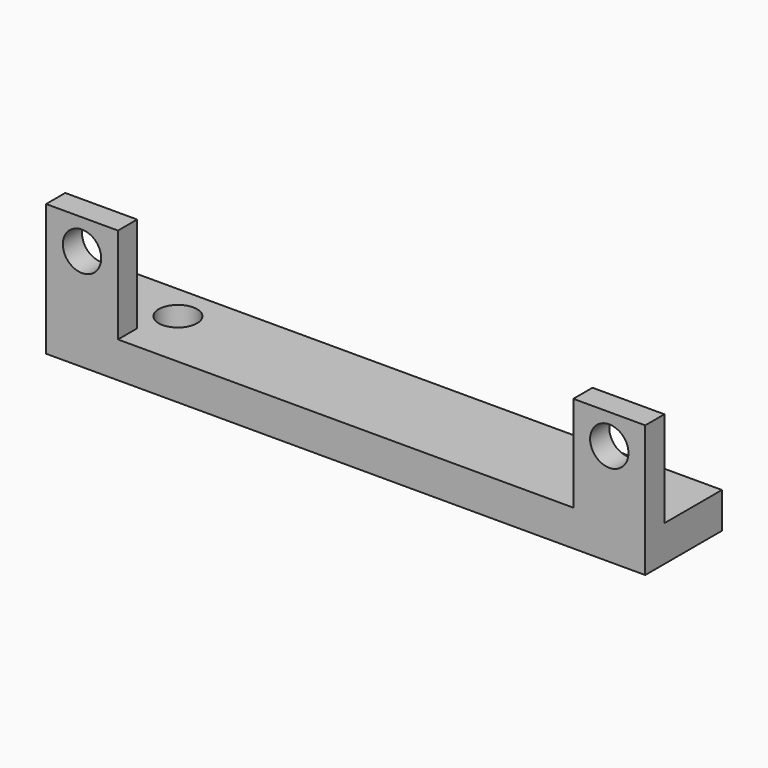
from build123d import *

# Parameters (mm, degrees)
SKETCH_W     = 50
SKETCH_H     = 8
SKETCH_R     = 1.6
PAD_DEPTH    = 3
SKETCH001_W  = 6
SKETCH001_H  = 2
PAD001_DEPTH = 8
SKETCH002_R  = 1.6
POCKET_DEPTH = 5


with BuildPart() as part:
    # Sketch → Pad (new body)
    with BuildSketch(Plane.XY):
        with Locations((-25, 4)):
            Rectangle(SKETCH_W, SKETCH_H)
        with Locations((-43, 5)):
            Circle(SKETCH_R, mode=Mode.SUBTRACT)
        with Locations((-7, 5)):
            Circle(SKETCH_R, mode=Mode.SUBTRACT)
    extrude(amount=PAD_DEPTH)

    # Sketch001 (on Face8 of Pad) → Pad001 (join)
    with BuildSketch(Plane.XY.offset(3)):
        with Locations((-47, 1)):
            Rectangle(SKETCH001_W, SKETCH001_H)
        with Locations((-3, 1)):
            Rectangle(SKETCH001_W, SKETCH001_H)
    extrude(amount=PAD001_DEPTH)

    # Sketch002 (on Face1 of Pad001) → Pocket (cut)
    with BuildSketch(Plane.XZ):
        with Locations((-47, 8.5)):
            Circle(SKETCH002_R)
        with Locations((-3, 8.5)):
            Circle(SKETCH002_R)
    extrude(amount=-POCKET_DEPTH, mode=Mode.SUBTRACT)


solid = part.part
